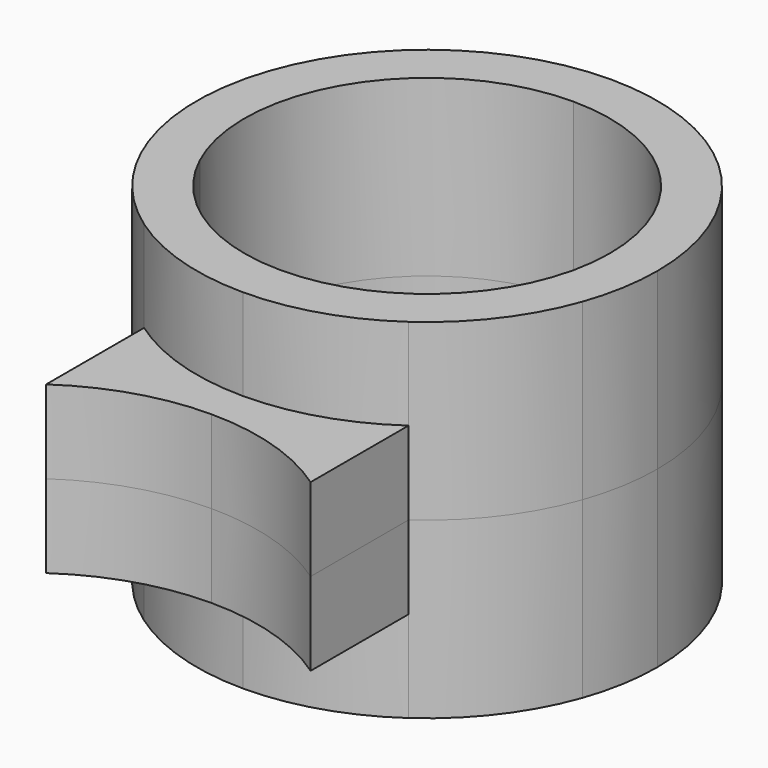
from build123d import *

# Parameters (mm, degrees)
F1_DEPTH = 10.5
F2_DEPTH = 10.5
F3_DEPTH = 5
F4_DEPTH = 5


with BuildPart() as f1:
    # F0 (on Top) → F1 (new body)
    with BuildSketch(Plane.XY):
        with BuildLine():
            ThreePointArc((-9.9722282607, -4.6427000245), (-9.2754972985, 5.9131336756), (0, 11))
            Line((0, 11), (0, 13.864))
            ThreePointArc((0, 13.864), (-11.3264488949, 7.9951267301), (-13.0635306285, -4.6427000245))
            Line((-13.0635306285, -4.6427000245), (-9.9722282607, -4.6427000245))
        make_face()
        with BuildLine():
            ThreePointArc((0, 11), (7.7781745931, 7.7781745931), (11, 0))
            ThreePointArc((11, 0), (10.7399839587, -2.3775501186), (9.9722282607, -4.6427000245))
            Line((9.9722282607, -4.6427000245), (13.0635306285, -4.6427000245))
            ThreePointArc((13.0635306285, -4.6427000245), (13.6624171477, -2.3556004931), (13.864, 0))
            ThreePointArc((13.864, 0), (9.8033284144, 9.8033284144), (0, 13.864))
            Line((0, 13.864), (0, 11))
        make_face()
        with BuildLine():
            Line((13.0635306285, -4.6427000245), (9.9722282607, -4.6427000245))
            ThreePointArc((9.9722282607, -4.6427000245), (5.9131336756, -9.2754972985), (0, -11))
            Line((0, -11), (0, -13.864))
            ThreePointArc((0, -13.864), (4.1751173413, -13.2203967863), (7.962594905, -11.3493426408))
            ThreePointArc((7.962594905, -11.3493426408), (11.0349106265, -8.3929281819), (13.0635306285, -4.6427000245))
        make_face()
        with BuildLine():
            ThreePointArc((0, -11), (-5.9131336756, -9.2754972985), (-9.9722282607, -4.6427000245))
            Line((-9.9722282607, -4.6427000245), (-13.0635306285, -4.6427000245))
            ThreePointArc((-13.0635306285, -4.6427000245), (-11.0349106265, -8.3929281819), (-7.962594905, -11.3493426408))
            ThreePointArc((-7.962594905, -11.3493426408), (-4.1751173413, -13.2203967863), (0, -13.864))
            Line((0, -13.864), (0, -11))
        make_face()
    extrude(amount=F1_DEPTH)

    # F0 (on Top) → F2 (join)
    with BuildSketch(Plane.XY):
        with BuildLine():
            ThreePointArc((0, 11), (7.7781745931, 7.7781745931), (11, 0))
            ThreePointArc((11, 0), (10.7399839587, -2.3775501186), (9.9722282607, -4.6427000245))
            Line((9.9722282607, -4.6427000245), (13.0635306285, -4.6427000245))
            ThreePointArc((13.0635306285, -4.6427000245), (13.6624171477, -2.3556004931), (13.864, 0))
            ThreePointArc((13.864, 0), (9.8033284144, 9.8033284144), (0, 13.864))
            Line((0, 13.864), (0, 11))
        make_face()
        with BuildLine():
            ThreePointArc((-9.9722282607, -4.6427000245), (-9.2754972985, 5.9131336756), (0, 11))
            Line((0, 11), (0, 13.864))
            ThreePointArc((0, 13.864), (-11.3264488949, 7.9951267301), (-13.0635306285, -4.6427000245))
            Line((-13.0635306285, -4.6427000245), (-9.9722282607, -4.6427000245))
        make_face()
        with BuildLine():
            Line((13.0635306285, -4.6427000245), (9.9722282607, -4.6427000245))
            ThreePointArc((9.9722282607, -4.6427000245), (5.9131336756, -9.2754972985), (0, -11))
            Line((0, -11), (0, -13.864))
            ThreePointArc((0, -13.864), (4.1751173413, -13.2203967863), (7.962594905, -11.3493426408))
            ThreePointArc((7.962594905, -11.3493426408), (11.0349106265, -8.3929281819), (13.0635306285, -4.6427000245))
        make_face()
        with BuildLine():
            ThreePointArc((0, -11), (-5.9131336756, -9.2754972985), (-9.9722282607, -4.6427000245))
            Line((-9.9722282607, -4.6427000245), (-13.0635306285, -4.6427000245))
            ThreePointArc((-13.0635306285, -4.6427000245), (-11.0349106265, -8.3929281819), (-7.962594905, -11.3493426408))
            ThreePointArc((-7.962594905, -11.3493426408), (-4.1751173413, -13.2203967863), (0, -13.864))
            Line((0, -13.864), (0, -11))
        make_face()
    extrude(amount=-F2_DEPTH)

    # F0 (on Top) → F3 (join)
    with BuildSketch(Plane.XY):
        with BuildLine():
            Line((0, -16.2346414998), (0, -13.864))
            ThreePointArc((0, -13.864), (-4.1751173413, -13.2203967863), (-7.962594905, -11.3493426408))
            Line((-7.962594905, -11.3493426408), (-7.962594905, -18.7195608497))
            ThreePointArc((-7.962594905, -18.7195608497), (-4.1706636701, -16.8703022138), (0, -16.2346414998))
        make_face()
        with BuildLine():
            ThreePointArc((7.962594905, -11.3493426408), (4.1751173413, -13.2203967863), (0, -13.864))
            Line((0, -13.864), (0, -16.2346414998))
            ThreePointArc((0, -16.2346414998), (4.1706636701, -16.8703022138), (7.962594905, -18.7195608497))
            Line((7.962594905, -18.7195608497), (7.962594905, -11.3493426408))
        make_face()
    extrude(amount=F3_DEPTH)

    # F0 (on Top) → F4 (join)
    with BuildSketch(Plane.XY):
        with BuildLine():
            Line((0, -16.2346414998), (0, -13.864))
            ThreePointArc((0, -13.864), (-4.1751173413, -13.2203967863), (-7.962594905, -11.3493426408))
            Line((-7.962594905, -11.3493426408), (-7.962594905, -18.7195608497))
            ThreePointArc((-7.962594905, -18.7195608497), (-4.1706636701, -16.8703022138), (0, -16.2346414998))
        make_face()
        with BuildLine():
            ThreePointArc((7.962594905, -11.3493426408), (4.1751173413, -13.2203967863), (0, -13.864))
            Line((0, -13.864), (0, -16.2346414998))
            ThreePointArc((0, -16.2346414998), (4.1706636701, -16.8703022138), (7.962594905, -18.7195608497))
            Line((7.962594905, -18.7195608497), (7.962594905, -11.3493426408))
        make_face()
    extrude(amount=-F4_DEPTH)


solid = f1.part
